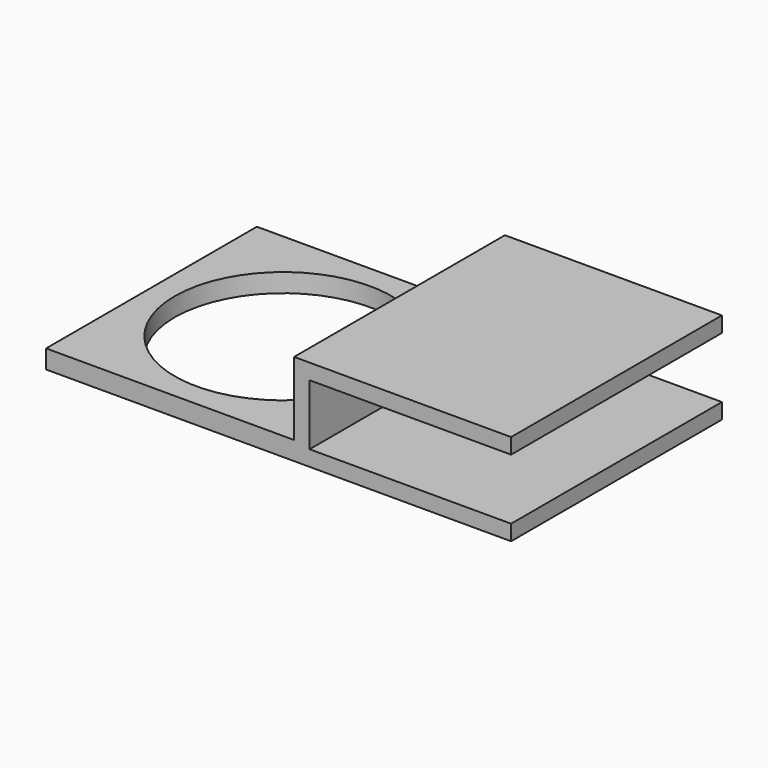
from build123d import *

# Parameters (mm, degrees)
F1_DEPTH = 85
F2_R     = 35
F3_DEPTH = 25


with BuildPart() as f1:
    # F0 (on Front) → F1 (new body)
    with BuildSketch(Plane.XZ):
        Polygon((98.253411, 46.704305), (28.253411, 46.704305), (28.253411, 23.104305), (-51.746589, 23.104305), (-51.746589, 17.104305), (98.253411, 17.104305), (98.253411, 22.104305), (33.253411, 22.104305), (33.253411, 41.704305), (98.253411, 41.704305), align=None)
    extrude(amount=F1_DEPTH)

    # F2 (on face) → F3 (cut)
    with BuildSketch(Plane(origin=(0, 0, 17.104305), x_dir=(1, 0, 0), z_dir=(0, 0, -1))):
        with Locations((-9.246589, 42.5)):
            Circle(F2_R)
    extrude(amount=-F3_DEPTH, mode=Mode.SUBTRACT)


solid = f1.part
